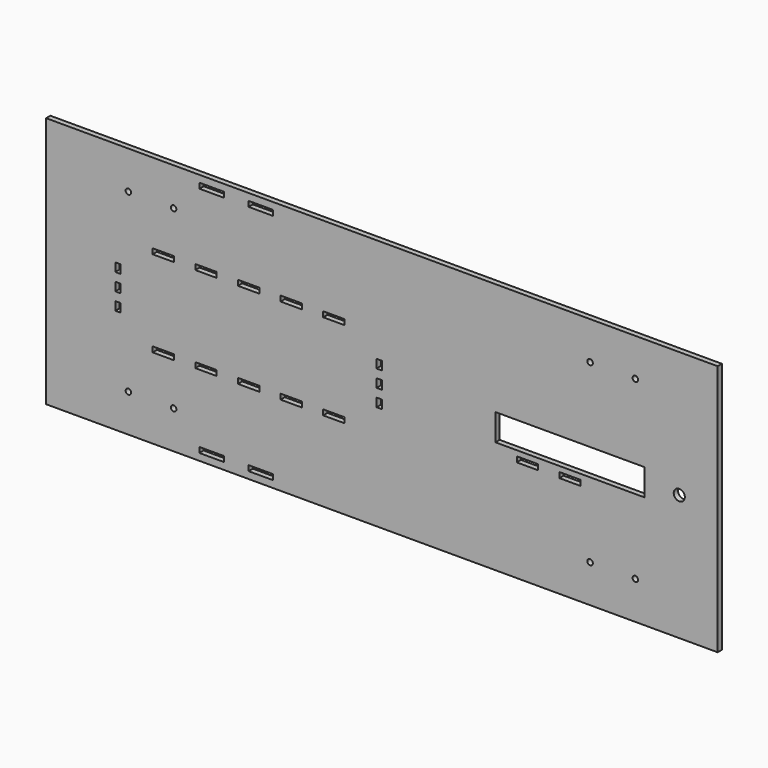
from build123d import *

# Parameters (mm, degrees)
F0_W     = 400
F0_H     = 150
F0_W_2   = 14.666667
F0_H_2   = 3.175
F0_R     = 1.64084
F0_W_3   = 12.7
F0_W_4   = 3.175
F0_H_3   = 5.08
F0_H_4   = 3.215846
F0_R_2   = 3.302
F1_DEPTH = 3.175


with BuildPart() as f1:
    # F0 (on Front) → F1 (new body)
    with BuildSketch(Plane.XZ):
        Rectangle(F0_W, F0_H)
        with Locations((-101.366666, -69.285)):
            Rectangle(F0_W_2, F0_H_2, mode=Mode.SUBTRACT)
        with Locations((-150.9747, -52.45)):
            Circle(F0_R, mode=Mode.SUBTRACT)
        with Locations((-124.0253, -52.45)):
            Circle(F0_R, mode=Mode.SUBTRACT)
        with Locations((-72.033333, -69.285)):
            Rectangle(F0_W_2, F0_H_2, mode=Mode.SUBTRACT)
        with Locations((-130.175, -25.590497)):
            Rectangle(F0_W_3, F0_H_2, mode=Mode.SUBTRACT)
        with Locations((-104.775, -25.590497)):
            Rectangle(F0_W_3, F0_H_2, mode=Mode.SUBTRACT)
        with Locations((-157.1625, -10.032997)):
            Rectangle(F0_W_4, F0_H_3, mode=Mode.SUBTRACT)
        with Locations((-79.375, -25.590497)):
            Rectangle(F0_W_3, F0_H_2, mode=Mode.SUBTRACT)
        with Locations((-53.975, -25.590497)):
            Rectangle(F0_W_3, F0_H_2, mode=Mode.SUBTRACT)
        with Locations((-28.575, -25.590497)):
            Rectangle(F0_W_3, F0_H_2, mode=Mode.SUBTRACT)
        with Locations((-1.5875, -10.032997)):
            Rectangle(F0_W_4, F0_H_3, mode=Mode.SUBTRACT)
        with Locations((124.0253, -52.45)):
            Circle(F0_R, mode=Mode.SUBTRACT)
        with Locations((150.9747, -52.45)):
            Circle(F0_R, mode=Mode.SUBTRACT)
        with Locations((86.7, -12.720423)):
            Rectangle(F0_W_3, F0_H_4, mode=Mode.SUBTRACT)
        with Locations((112.1, -12.720423)):
            Rectangle(F0_W_3, F0_H_4, mode=Mode.SUBTRACT)
        with Locations((-157.1625, 0.127003)):
            Rectangle(F0_W_4, F0_H_3, mode=Mode.SUBTRACT)
        with Locations((-157.1625, 10.287003)):
            Rectangle(F0_W_4, F0_H_3, mode=Mode.SUBTRACT)
        with Locations((-130.175, 25.844503)):
            Rectangle(F0_W_3, F0_H_2, mode=Mode.SUBTRACT)
        with Locations((-104.775, 25.844503)):
            Rectangle(F0_W_3, F0_H_2, mode=Mode.SUBTRACT)
        with Locations((-1.5875, 0.127003)):
            Rectangle(F0_W_4, F0_H_3, mode=Mode.SUBTRACT)
        with Locations((-1.5875, 10.287003)):
            Rectangle(F0_W_4, F0_H_3, mode=Mode.SUBTRACT)
        with Locations((-79.375, 25.844503)):
            Rectangle(F0_W_3, F0_H_2, mode=Mode.SUBTRACT)
        with Locations((-53.975, 25.844503)):
            Rectangle(F0_W_3, F0_H_2, mode=Mode.SUBTRACT)
        with Locations((-28.575, 25.844503)):
            Rectangle(F0_W_3, F0_H_2, mode=Mode.SUBTRACT)
        with Locations((-150.9747, 52.45)):
            Circle(F0_R, mode=Mode.SUBTRACT)
        with Locations((-124.0253, 52.45)):
            Circle(F0_R, mode=Mode.SUBTRACT)
        with Locations((-101.366666, 69.285)):
            Rectangle(F0_W_2, F0_H_2, mode=Mode.SUBTRACT)
        with Locations((-72.033333, 69.285)):
            Rectangle(F0_W_2, F0_H_2, mode=Mode.SUBTRACT)
        Polygon((156.55, 7.9375), (156.55, -7.9375), (118.45, -7.9375), (80.35, -7.9375), (67.65, -7.9375), (67.65, 7.9375), (80.35, 7.9375), (118.45, 7.9375), align=None, mode=Mode.SUBTRACT)
        with Locations((177.14, 0)):
            Circle(F0_R_2, mode=Mode.SUBTRACT)
        with Locations((124.0253, 52.45)):
            Circle(F0_R, mode=Mode.SUBTRACT)
        with Locations((150.9747, 52.45)):
            Circle(F0_R, mode=Mode.SUBTRACT)
    extrude(amount=F1_DEPTH)


solid = f1.part
